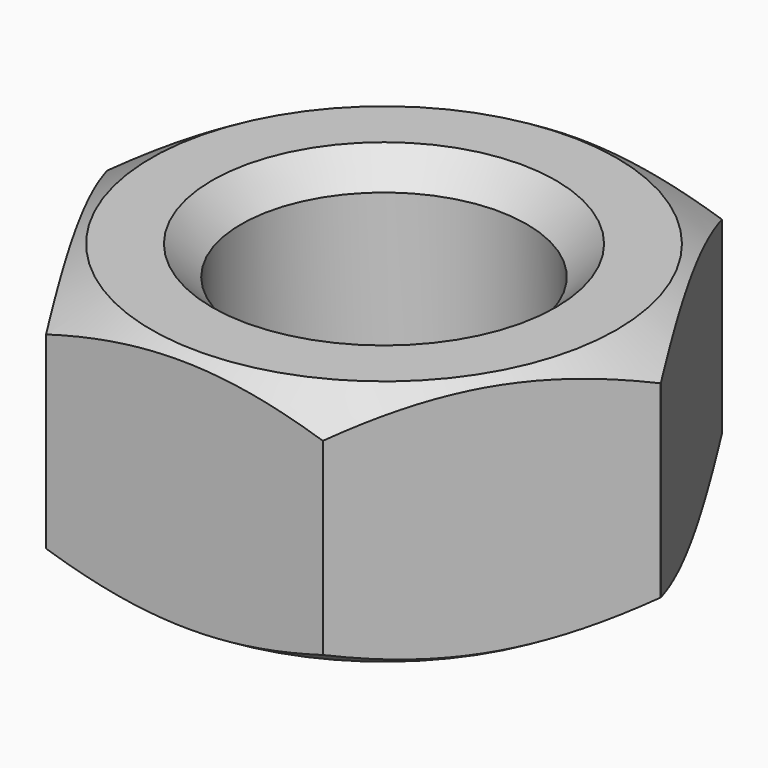
from build123d import *

# Parameters (mm, degrees)
F1_DEPTH = 11.45
F2_R     = 13.25
F3_DEPTH = 22.901
F6_SIZE  = 2.7


with BuildPart() as f1:
    # F0 (on Top) → F1 (new body, symmetric)
    with BuildSketch(Plane.XY):
        Polygon((12.606495, -22.84928), (26.091305, -0.507095), (13.484809, 22.342185), (-12.606495, 22.84928), (-26.091305, 0.507095), (-13.484809, -22.342185), align=None)
    extrude(amount=F1_DEPTH, both=True)

    # F2 (on face) → F3 (cut, through all)
    with BuildSketch(Plane.XY.offset(11.45)):
        Circle(F2_R)
    extrude(amount=-F3_DEPTH, mode=Mode.SUBTRACT)

    # F4 (on Front) → F5 (revolve, cut)
    with BuildSketch(Plane.XZ):
        Polygon((34.293845, 11.45), (21.591305, 11.45), (26.091305, 8.75), (26.091305, -8.75), (21.591305, -11.45), (34.293845, -11.45), align=None)
    revolve(axis=Axis((0, 0, 11.45), (0, 0, 1)), mode=Mode.SUBTRACT)

    # F6
    f6_edges = [f1.edges().sort_by_distance(p)[0] for p in [
        (-13.25, 0, 11.45),
        (-13.25, 0, -11.45),
    ]]
    chamfer(f6_edges, length=F6_SIZE)


solid = f1.part
